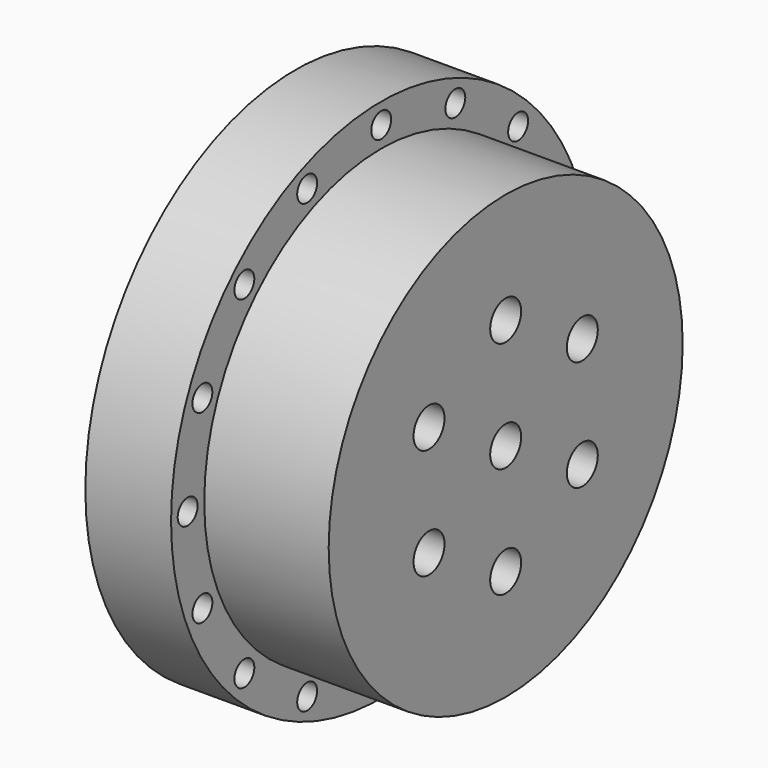
from build123d import *

# Parameters (mm, degrees)
F0_R     = 80
F0_R_2   = 7
F1_DEPTH = 76
F0_R_3   = 95
F0_R_4   = 4.5
F2_DEPTH = 31


with BuildPart() as f1:
    # F0 (on Right) → F1 (new body)
    with BuildSketch(Plane.YZ):
        Circle(F0_R)
        with Locations((-34.641016, -20)):
            Circle(F0_R_2, mode=Mode.SUBTRACT)
        with Locations((0, -40)):
            Circle(F0_R_2, mode=Mode.SUBTRACT)
        with Locations((34.641016, -20)):
            Circle(F0_R_2, mode=Mode.SUBTRACT)
        with Locations((-34.641016, 20)):
            Circle(F0_R_2, mode=Mode.SUBTRACT)
        Circle(F0_R_2, mode=Mode.SUBTRACT)
        with Locations((34.641016, 20)):
            Circle(F0_R_2, mode=Mode.SUBTRACT)
        with Locations((0, 40)):
            Circle(F0_R_2, mode=Mode.SUBTRACT)
    extrude(amount=F1_DEPTH)

    # F0 (on Right) → F2 (join)
    with BuildSketch(Plane.YZ):
        Circle(F0_R_3)
        with Locations((-61.870429, -61.870429)):
            Circle(F0_R_4, mode=Mode.SUBTRACT)
        with Locations((-33.484035, -80.837611)):
            Circle(F0_R_4, mode=Mode.SUBTRACT)
        with Locations((-80.837611, -33.484035)):
            Circle(F0_R_4, mode=Mode.SUBTRACT)
        with Locations((0, -87.498)):
            Circle(F0_R_4, mode=Mode.SUBTRACT)
        with Locations((33.484035, -80.837611)):
            Circle(F0_R_4, mode=Mode.SUBTRACT)
        with Locations((61.870429, -61.870429)):
            Circle(F0_R_4, mode=Mode.SUBTRACT)
        with Locations((80.837611, -33.484035)):
            Circle(F0_R_4, mode=Mode.SUBTRACT)
        with Locations((-87.498, 0)):
            Circle(F0_R_4, mode=Mode.SUBTRACT)
        with Locations((-80.837611, 33.484035)):
            Circle(F0_R_4, mode=Mode.SUBTRACT)
        with Locations((-61.870429, 61.870429)):
            Circle(F0_R_4, mode=Mode.SUBTRACT)
        with Locations((-33.484035, 80.837611)):
            Circle(F0_R_4, mode=Mode.SUBTRACT)
        Circle(F0_R, mode=Mode.SUBTRACT)
        with Locations((87.498, 0)):
            Circle(F0_R_4, mode=Mode.SUBTRACT)
        with Locations((80.837611, 33.484035)):
            Circle(F0_R_4, mode=Mode.SUBTRACT)
        with Locations((0, 87.498)):
            Circle(F0_R_4, mode=Mode.SUBTRACT)
        with Locations((33.484035, 80.837611)):
            Circle(F0_R_4, mode=Mode.SUBTRACT)
        with Locations((61.870429, 61.870429)):
            Circle(F0_R_4, mode=Mode.SUBTRACT)
    extrude(amount=F2_DEPTH)


solid = f1.part
